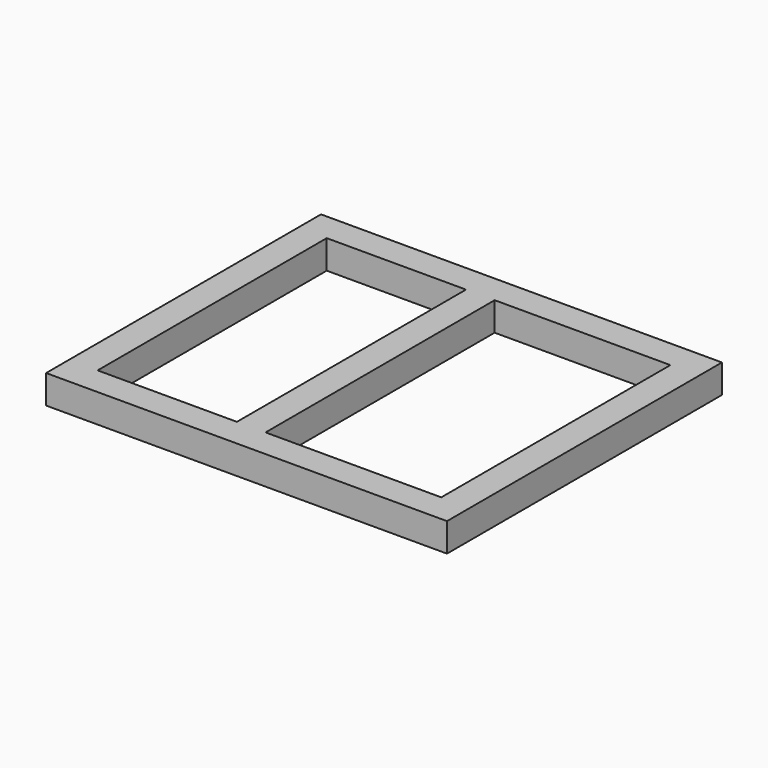
from build123d import *

# Parameters (mm, degrees)
F0_W     = 700
F0_H     = 600
F0_W_2   = 600
F0_H_2   = 500
F1_DEPTH = 50
F2_W     = 50
F2_H     = 500
F3_DEPTH = 50


with BuildPart() as f1:
    # F0 (on Top) → F1 (new body)
    with BuildSketch(Plane.XY):
        Rectangle(F0_W, F0_H)
        Rectangle(F0_W_2, F0_H_2, mode=Mode.SUBTRACT)
    extrude(amount=F1_DEPTH)

    # F2 (on Top) → F3 (join)
    with BuildSketch(Plane.XY):
        with Locations((-31.817, 0)):
            Rectangle(F2_W, F2_H)
    extrude(amount=F3_DEPTH)


solid = f1.part
